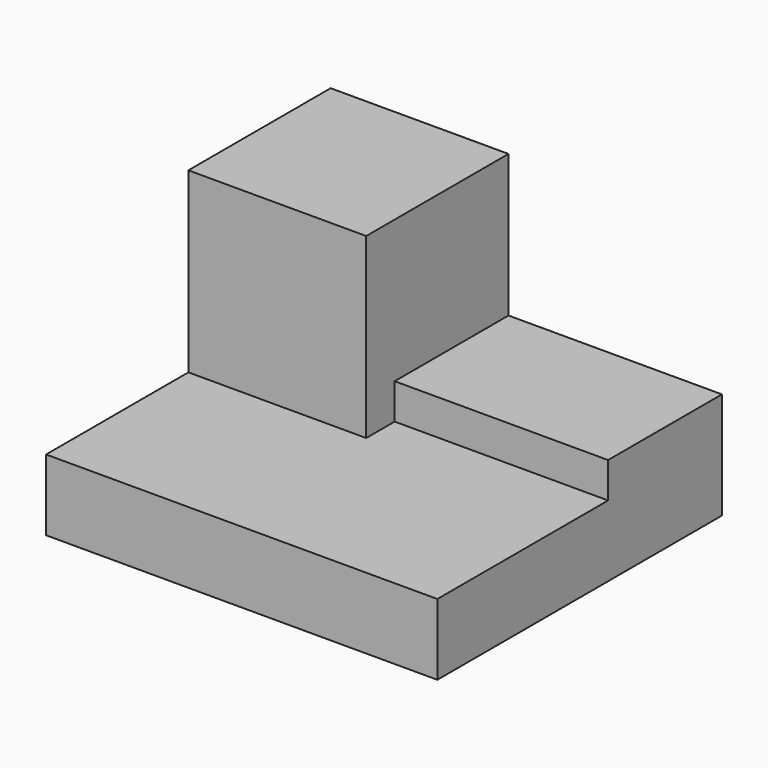
from build123d import *

# Parameters (mm, degrees)
F0_W     = 55
F0_H     = 10
F1_DEPTH = 50
F3_W     = 20
F3_H     = 15
F4_DEPTH = 55
F2_W     = 25
F2_H     = 25
F5_DEPTH = 25


with BuildPart() as f1:
    # F0 (on Front) → F1 (new body)
    with BuildSketch(Plane.XZ):
        Rectangle(F0_W, F0_H)
    extrude(amount=F1_DEPTH)

    # F3 (on face) → F4 (join)
    with BuildSketch(Plane.YZ.offset(27.5)):
        with Locations((-10, 2.5)):
            Rectangle(F3_W, F3_H)
    extrude(amount=-F4_DEPTH)

    # F2 (on face) → F5 (join)
    with BuildSketch(Plane.XY.offset(5)):
        with Locations((-15, -12.5)):
            Rectangle(F2_W, F2_H)
    extrude(amount=F5_DEPTH)


solid = f1.part
